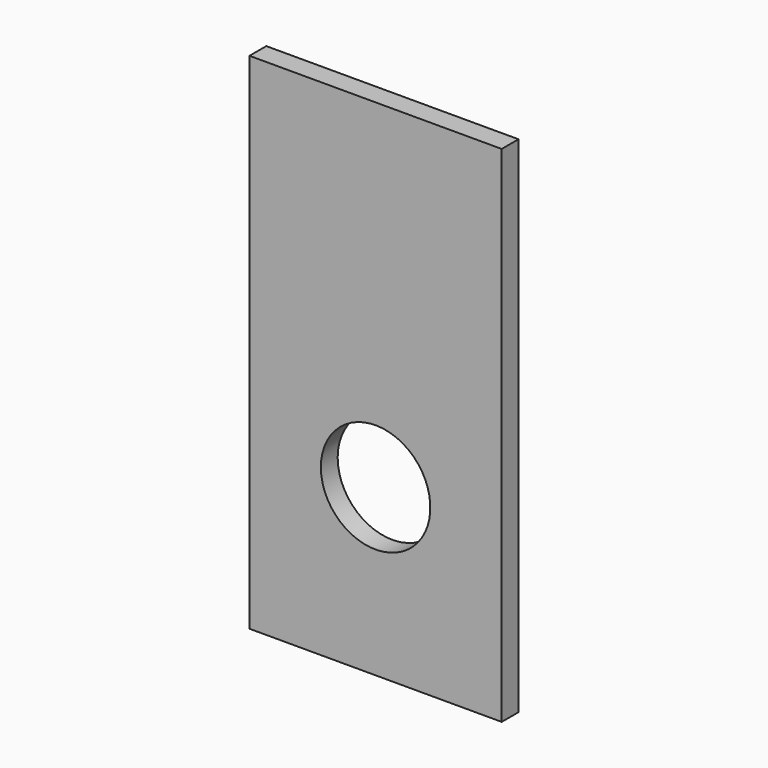
from build123d import *

# Parameters (mm, degrees)
F0_W     = 1219.2
F0_H     = 2438.4
F1_DEPTH = 101.6
F2_R     = 264.56222
F3_DEPTH = 101.601


with BuildPart() as f1:
    # F0 (on Front) → F1 (new body)
    with BuildSketch(Plane.XZ):
        Rectangle(F0_W, F0_H)
    extrude(amount=F1_DEPTH)

    # F2 (on face) → F3 (cut, through all)
    with BuildSketch(Plane(origin=(0, 0, 0), x_dir=(-1, 0, 0), z_dir=(0, 1, 0))):
        with Locations((0, -419.301122)):
            Circle(F2_R)
    extrude(amount=-F3_DEPTH, mode=Mode.SUBTRACT)


solid = f1.part
